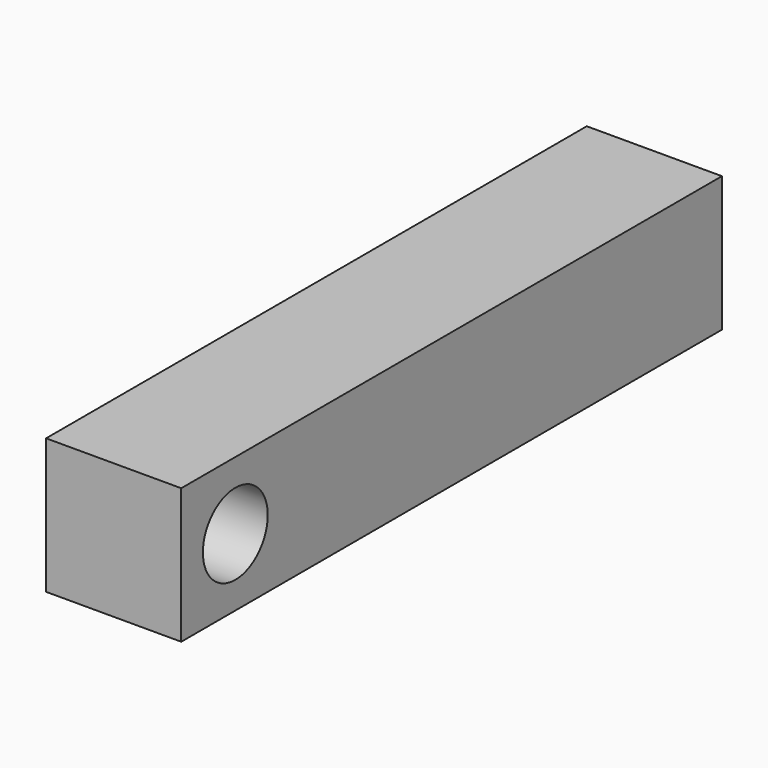
from build123d import *

# Parameters (mm, degrees)
SKETCH_W  = 50
SKETCH_H  = 10
SKETCH_R  = 3
PAD_DEPTH = 10


with BuildPart() as part:
    # Sketch → Pad (new body)
    with BuildSketch(Plane.YZ):
        with Locations((20, 0)):
            Rectangle(SKETCH_W, SKETCH_H)
        Circle(SKETCH_R, mode=Mode.SUBTRACT)
    extrude(amount=PAD_DEPTH)


solid = part.part
